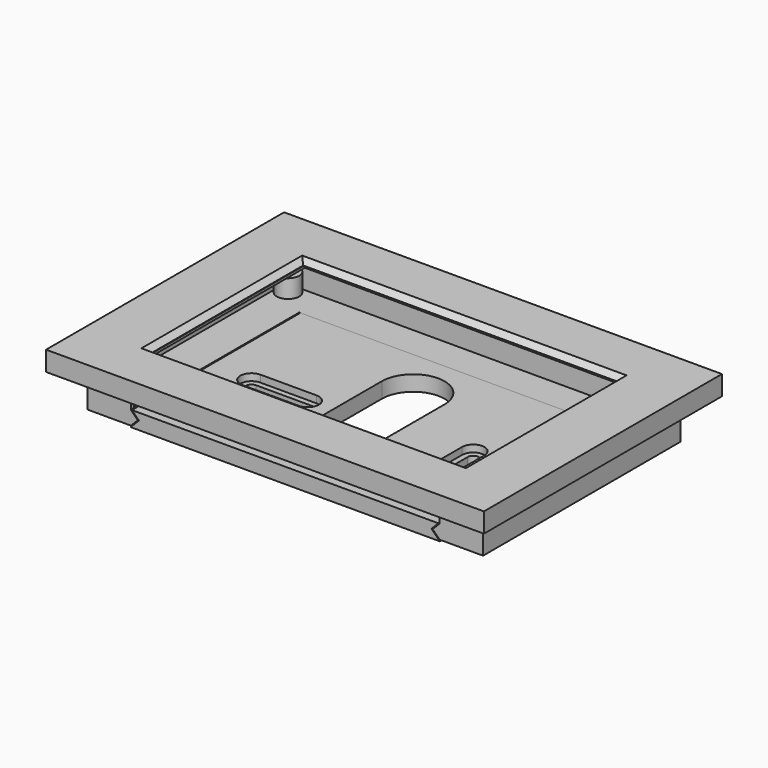
from build123d import *

# Parameters (mm, degrees)
SKETCH_W        = 156
SKETCH_H        = 106
SKETCH_W_2      = 112
SKETCH_H_2      = 68
PAD_DEPTH       = 7
SKETCH002_R     = 1.3
SKETCH002_W     = 122
SKETCH002_H     = 77
POCKET_DEPTH    = 5
CHAMFER_SIZE    = 1.8
SKETCH004_W     = 141
SKETCH004_H     = 88
PAD001_DEPTH    = 13
POCKET001_DEPTH = 8
SKETCH005_W     = 138
SKETCH005_H     = 85
POCKET002_DEPTH = 1.5
SKETCH006_R     = 1.65
POCKET003_DEPTH = 13.001
SKETCH007_R     = 3
POCKET004_DEPTH = 7
POCKET006_DEPTH = 75
SKETCH010_W     = 12
SKETCH010_H     = 5
POCKET007_DEPTH = 1.5
PAD002_DEPTH    = 75
POCKET008_DEPTH = 2.5
POCKET009_DEPTH = 7.501


with BuildPart() as front:
    # Sketch → Pad (new body)
    with BuildSketch(Plane.XY):
        Rectangle(SKETCH_W, SKETCH_H)
        Rectangle(SKETCH_W_2, SKETCH_H_2, mode=Mode.SUBTRACT)
    extrude(amount=PAD_DEPTH)

    # Sketch002 (on Face9 of Pad) → Pocket (cut)
    with BuildSketch(Plane(origin=(0, 0, 0), x_dir=(1, 0, 0), z_dir=(0, 0, -1))):
        with Locations((-65, 36)):
            Circle(SKETCH002_R)
        with Locations((65, 36)):
            Circle(SKETCH002_R)
        with Locations((-65, -41)):
            Circle(SKETCH002_R)
        with Locations((65, -41)):
            Circle(SKETCH002_R)
        with Locations((0, -2.5)):
            Rectangle(SKETCH002_W, SKETCH002_H)
    extrude(amount=-POCKET_DEPTH, mode=Mode.SUBTRACT)

    # Chamfer
    chamfer_edges = [front.edges().sort_by_distance(p)[0] for p in [
        (-56, 0, 7),
        (0, 34, 7),
        (56, 0, 7),
        (0, -34, 7),
    ]]
    chamfer(chamfer_edges, length=CHAMFER_SIZE)


with BuildPart() as back:
    # Sketch004 → Pad001 (new body)
    with BuildSketch(Plane.XY):
        Rectangle(SKETCH004_W, SKETCH004_H)
    extrude(amount=-PAD001_DEPTH)

    # Sketch003 (on Face5 of Pad001) → Pocket001 (cut)
    with BuildSketch(Plane.XY):
        with BuildLine():
            Line((-69, 38.500018), (-69, -38.500018))
            ThreePointArc((-65.000018, -42.5), (-62.171573, -35.671573), (-69, -38.500018))
            Line((-65.000018, -42.5), (64.999982, -42.5))
            ThreePointArc((69, -38.500018), (62.171585, -35.67156), (64.999982, -42.5))
            Line((69, -38.500018), (69, 38.500018))
            ThreePointArc((64.999982, 42.5), (62.171585, 35.67156), (69, 38.500018))
            Line((64.999982, 42.5), (-64.999982, 42.5))
            ThreePointArc((-69, 38.500018), (-62.171585, 35.67156), (-64.999982, 42.5))
        make_face()
    extrude(amount=-POCKET001_DEPTH, mode=Mode.SUBTRACT)

    # Sketch005 (on Face5 of Pad001) → Pocket002 (cut)
    with BuildSketch(Plane.XY):
        Rectangle(SKETCH005_W, SKETCH005_H)
    extrude(amount=-POCKET002_DEPTH, mode=Mode.SUBTRACT)

    # Sketch006 (on Face5 of Pocket002) → Pocket003 (cut, through all)
    with BuildSketch(Plane(origin=(0, 0, -13), x_dir=(1, 0, 0), z_dir=(0, 0, -1))):
        with Locations((-65, 38.5)):
            Circle(SKETCH006_R)
        with Locations((65, 38.5)):
            Circle(SKETCH006_R)
        with Locations((65, -38.5)):
            Circle(SKETCH006_R)
        with Locations((-65, -38.5)):
            Circle(SKETCH006_R)
    extrude(amount=-POCKET003_DEPTH, mode=Mode.SUBTRACT)

    # Sketch007 (on Face5 of Pocket002) → Pocket004 (cut)
    with BuildSketch(Plane(origin=(0, 0, -13), x_dir=(1, 0, 0), z_dir=(0, 0, -1))):
        with Locations((-65, 38.5)):
            Circle(SKETCH007_R)
        with Locations((65, 38.5)):
            Circle(SKETCH007_R)
        with Locations((65, -38.5)):
            Circle(SKETCH007_R)
        with Locations((-65, -38.5)):
            Circle(SKETCH007_R)
    extrude(amount=-POCKET004_DEPTH, mode=Mode.SUBTRACT)

    # Sketch009 → Pocket006 (cut)
    with BuildSketch(Plane.XZ.offset(44)):
        Polygon((-52.5, -10.5), (-55, -8), (-55, 0), (55, 0), (55, -8), (52.5, -10.5), (55, -13), (-55, -13), align=None)
    extrude(amount=-POCKET006_DEPTH, mode=Mode.SUBTRACT)

    # Sketch010 (on Face2 of Pocket006) → Pocket007 (cut)
    with BuildSketch(Plane(origin=(-70.5, 0, 0), x_dir=(0, -1, 0), z_dir=(-1, 0, 0))):
        with Locations((0, -2.5)):
            Rectangle(SKETCH010_W, SKETCH010_H)
    extrude(amount=-POCKET007_DEPTH, mode=Mode.SUBTRACT)


with BuildPart() as mount:
    # Sketch011 → Pad002 (new body)
    with BuildSketch(Plane.XZ.offset(44)):
        Polygon((-54.6, -8), (54.6, -8), (52.1, -10.5), (55.1, -13.5), (-55.1, -13.5), (-52.1, -10.5), align=None)
    extrude(amount=-PAD002_DEPTH)

    # Sketch012 (on Face2 of Pad002) → Pocket008 (cut)
    with BuildSketch(Plane(origin=(0, -44, -8), x_dir=(-1, 0, 0), z_dir=(0, 0, 1))):
        with BuildLine():
            ThreePointArc((-31, -20), (-35, -16), (-39, -20))
            Line((-39, -20), (-39, -40))
            ThreePointArc((-39, -40), (-35, -44), (-31, -40))
            Line((-31, -20), (-31, -40))
        make_face()
        with BuildLine():
            ThreePointArc((20, -31), (16, -35), (20, -39))
            Line((20, -39), (40, -39))
            ThreePointArc((40, -39), (44, -35), (40, -31))
            Line((20, -31), (40, -31))
        make_face()
    extrude(amount=-POCKET008_DEPTH, mode=Mode.SUBTRACT)

    # Sketch013 → Pocket009 (cut, through all)
    with BuildSketch(Plane(origin=(0, -44, -6), x_dir=(-1, 0, 0), z_dir=(0, 0, 1))):
        with BuildLine():
            ThreePointArc((-33, -20), (-35, -18), (-37, -20))
            Line((-37, -20), (-37, -40))
            ThreePointArc((-37, -40), (-35, -42), (-33, -40))
            Line((-33, -20), (-33, -40))
        make_face()
        with BuildLine():
            ThreePointArc((20, -33), (18, -35), (20, -37))
            Line((20, -37), (40, -37))
            ThreePointArc((40, -37), (42, -35), (40, -33))
            Line((20, -33), (40, -33))
        make_face()
        with BuildLine():
            ThreePointArc((-11.172499, -57.001894), (0, -68.174393), (11.172499, -57.001894))
            Line((11.172499, -57.001894), (11.172499, -26.121185))
            ThreePointArc((11.172499, -26.121185), (0, -14.948686), (-11.172499, -26.121185))
            Line((-11.172499, -57.001894), (-11.172499, -26.121185))
        make_face()
    extrude(amount=-POCKET009_DEPTH, mode=Mode.SUBTRACT)


solid = Compound([front.part, back.part, mount.part])
